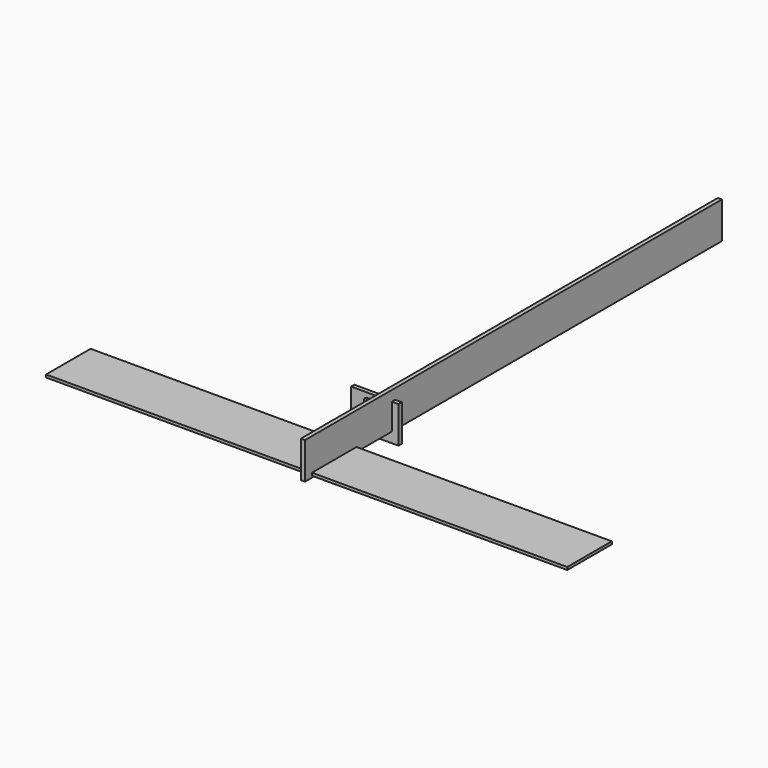
from build123d import *

# Parameters (mm, degrees)
F0_W     = 222.25
F0_H     = 171.45
F1_DEPTH = 19.05
F3_DEPTH = 19.05
F4_W     = 2438.4
F4_H     = 171.45
F5_DEPTH = 19.05
F6_W     = 2438.4
F6_H     = 260.35
F7_DEPTH = 12.7


with BuildPart() as f1:
    # F0 (on Front) → F1 (new body)
    with BuildSketch(Plane.XZ):
        with Locations((-60.682219, 29.926221)):
            Rectangle(F0_W, F0_H)
    extrude(amount=F1_DEPTH)

    # F2 (on face) → F3 (cut)
    with BuildSketch(Plane.XZ.offset(19.05)):
        with BuildLine():
            Line((-25.757219, 93.426221), (-95.607219, 93.426221))
            ThreePointArc((-95.607219, 93.426221), (-111.798823, 77.551221), (-95.607219, 61.676221))
            Line((-95.607219, 61.676221), (-25.757219, 61.676221))
            ThreePointArc((-25.757219, 61.676221), (-9.957713, 77.551221), (-25.757219, 93.426221))
        make_face()
    extrude(amount=-F3_DEPTH, mode=Mode.SUBTRACT)


with BuildPart() as f5:
    # F4 (on Right) → F5 (new body)
    with BuildSketch(Plane.YZ):
        with Locations((692.322745, 77.862317)):
            Rectangle(F4_W, F4_H)
    extrude(amount=F5_DEPTH)


with BuildPart() as f7:
    # F6 (on Top) → F7 (new body)
    with BuildSketch(Plane.XY):
        with Locations((-5.786661, -355.718326)):
            Rectangle(F6_W, F6_H)
    extrude(amount=F7_DEPTH)


solid = Compound([f1.part, f5.part, f7.part])
